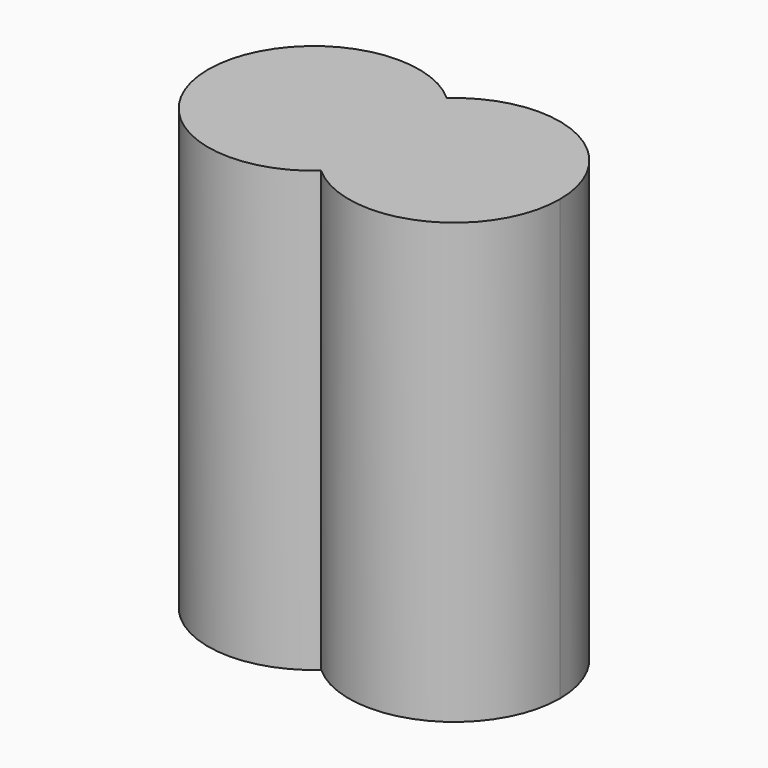
from build123d import *

# Parameters (mm, degrees)
F1_DEPTH = 5


with BuildPart() as f1:
    # F0 (on Top) → F1 (new body)
    with BuildSketch(Plane.XY):
        with BuildLine():
            ThreePointArc((0, 0.894427191), (-1.2898979376, 1.0954451199), (-2, 2.4e-08))
            ThreePointArc((-2, 2.4e-08), (-1.2898979595, -1.0954451101), (0, -0.894427191))
            ThreePointArc((0, -0.894427191), (-0.4, 0), (0, 0.894427191))
        make_face()
        with BuildLine():
            ThreePointArc((0, -0.894427191), (1.2898979486, -1.095445115), (2, 0))
            ThreePointArc((2, 0), (1.2898979486, 1.095445115), (0, 0.894427191))
            ThreePointArc((0, 0.894427191), (0.295445115, 0.4898979486), (0.4, 0))
            ThreePointArc((0.4, 0), (0.295445115, -0.4898979486), (0, -0.894427191))
        make_face()
        with BuildLine():
            ThreePointArc((0.4, 0), (0.295445115, 0.4898979486), (0, 0.894427191))
            ThreePointArc((0, 0.894427191), (-0.4, 0), (0, -0.894427191))
            ThreePointArc((0, -0.894427191), (0.295445115, -0.4898979486), (0.4, 0))
        make_face()
    extrude(amount=F1_DEPTH)


solid = f1.part
